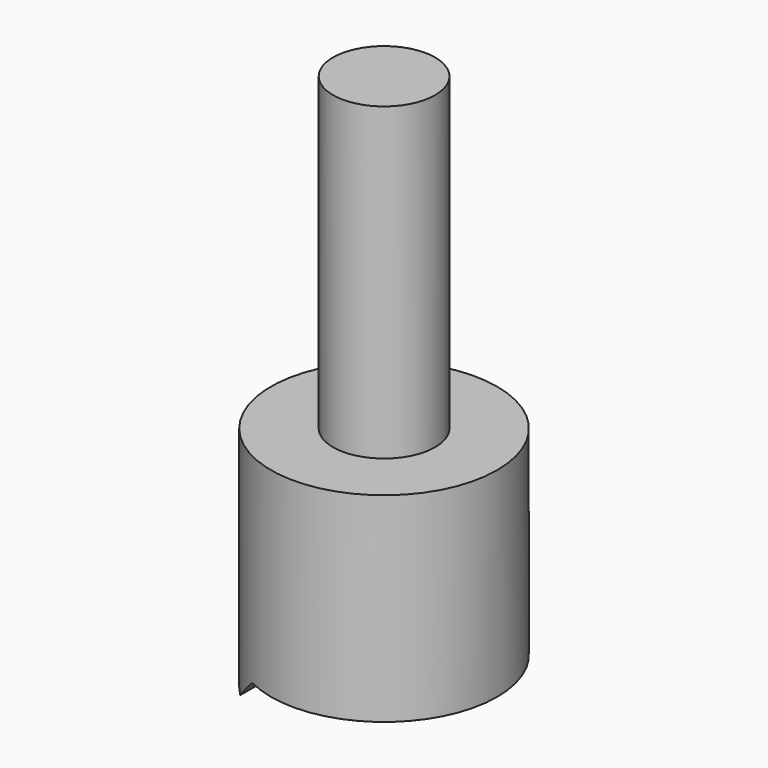
from build123d import *

# Parameters (mm, degrees)
F0_R          = 23.1775
F1_DEPTH      = 46.7106
F2_R          = 10.4599637804
F3_DEPTH      = 63.5
F5_DEPTH      = 23.1785
F5_DEPTH_BACK = 23.1785


with BuildPart() as f1:
    # F0 (on Top) → F1 (new body)
    with BuildSketch(Plane.XY):
        Circle(F0_R)
    extrude(amount=F1_DEPTH)

    # F2 (on face) → F3 (join)
    with BuildSketch(Plane.XY.offset(46.7106)):
        Circle(F2_R)
    extrude(amount=F3_DEPTH)

    # F4 (on Front) → F5 (cut, two sides)
    with BuildSketch(Plane.XZ) as f5_sk:
        Polygon((-10.4648, 5.8166), (-16.2814, 0), (23.1775, 0), (23.1775, 5.8166), align=None)
    extrude(amount=-F5_DEPTH, mode=Mode.SUBTRACT)
    extrude(f5_sk.sketch, amount=F5_DEPTH_BACK, mode=Mode.SUBTRACT)


solid = f1.part
